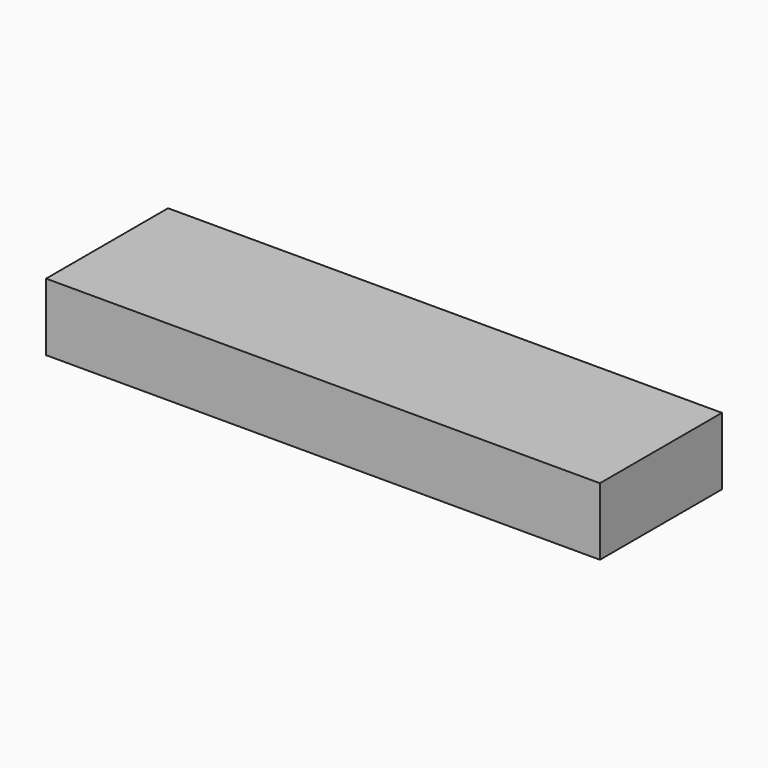
from build123d import *

# Parameters (mm, degrees)
F1_W     = 208.653927
F1_H     = 57.431307
F2_DEPTH = 25.4


with BuildPart() as f2:
    # F1 (on face) → F2 (new body)
    with BuildSketch(Plane.XY):
        with Locations((104.326963, -28.715653)):
            Rectangle(F1_W, F1_H)
    extrude(amount=F2_DEPTH)


solid = f2.part
